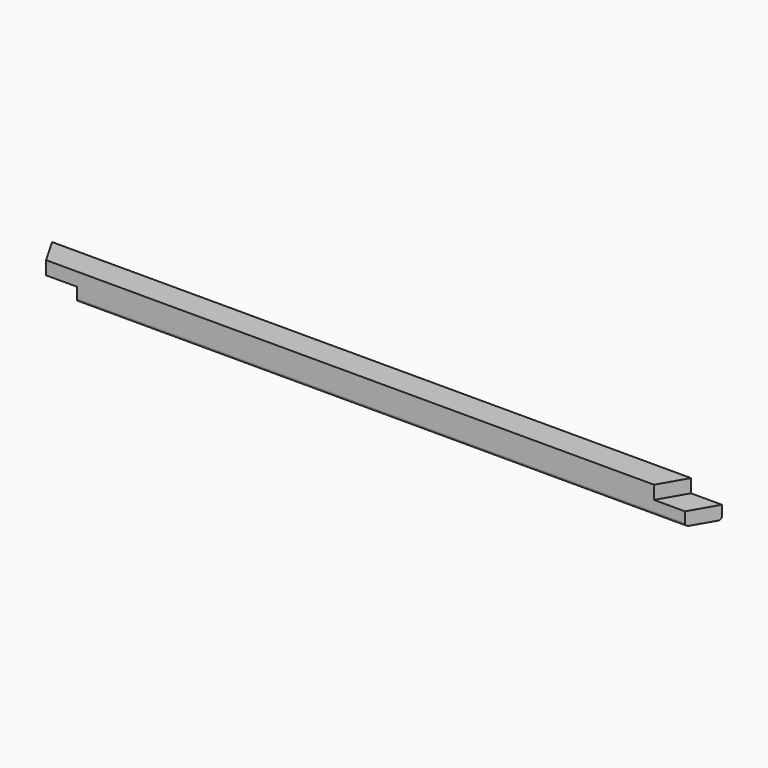
from build123d import *

# Parameters (mm, degrees)
F1_DEPTH = 24
F3_DEPTH = 24
F5_DEPTH = 24
F6_R     = 5


with BuildPart() as f1:
    # F0 (on Top) → F1 (new body, symmetric)
    with BuildSketch(Plane.XY):
        Polygon((572.287187, -24), (600, 24), (-600, 24), (-572.287187, -24), align=None)
    extrude(amount=F1_DEPTH, both=True)

    # F2 (on face) → F3 (cut)
    with BuildSketch(Plane.XY.offset(24)):
        Polygon((544.574374, 24), (516.861561, -24), (572.287187, -24), (600, 24), align=None)
    extrude(amount=-F3_DEPTH, mode=Mode.SUBTRACT)

    # F4 (on face) → F5 (cut)
    with BuildSketch(Plane(origin=(0, 0, -24), x_dir=(1, 0, 0), z_dir=(0, 0, -1))):
        Polygon((-544.574374, -24), (-516.861561, 24), (-572.287187, 24), (-600, -24), align=None)
    extrude(amount=-F5_DEPTH, mode=Mode.SUBTRACT)

    # F6
    f6_edges = [f1.edges().sort_by_distance(p)[0] for p in [
        (27.712813, 24, -24),
        (27.712813, -24, -24),
    ]]
    fillet(f6_edges, radius=F6_R)


solid = f1.part
